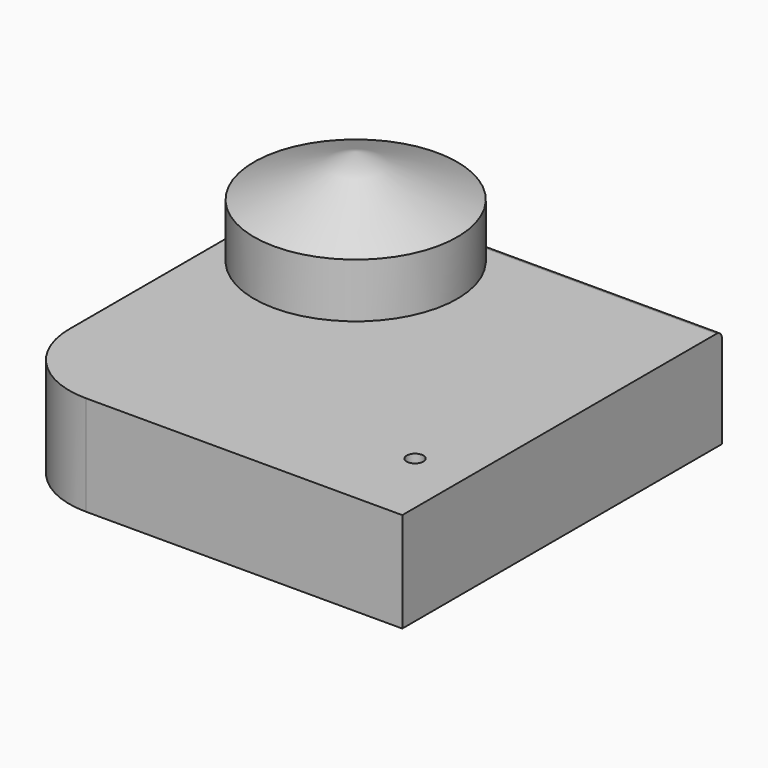
from build123d import *

# Parameters (mm, degrees)
F1_DEPTH = 25
F2_DEPTH = 5
F5_R     = 2
F7_D     = 5


with BuildPart() as f1:
    # F0 (on Top) → F1 (new body)
    with BuildSketch(Plane.XY):
        with BuildLine():
            Line((70, 50), (-35.928932, 50))
            ThreePointArc((-35.928932, 50), (-37.842349, 49.619398), (-39.464466, 48.535534))
            Line((-39.464466, 48.535534), (-50, 38))
            Line((-50, 38), (-50, -45))
            ThreePointArc((-50, -45), (-42.67767, -62.67767), (-25, -70))
            Line((-25, -70), (70, -70))
            Line((70, -70), (70, 50))
        make_face()
    extrude(amount=F1_DEPTH)

    # F0 (on Top) → F2 (join)
    with BuildSketch(Plane.XY):
        with BuildLine():
            Line((70, 50), (-35.928932, 50))
            ThreePointArc((-35.928932, 50), (-37.842349, 49.619398), (-39.464466, 48.535534))
            Line((-39.464466, 48.535534), (-50, 38))
            Line((-50, 38), (-50, -45))
            ThreePointArc((-50, -45), (-42.67767, -62.67767), (-25, -70))
            Line((-25, -70), (70, -70))
            Line((70, -70), (70, 50))
        make_face()
    extrude(amount=-F2_DEPTH)

    # F5
    f5_edges = [f1.edges().sort_by_distance(p)[0] for p in [
        (17.035534, 50, 25),
    ]]
    fillet(f5_edges, radius=F5_R)

    # F7 (through all)
    with Locations(Plane.XY.offset(25)):
        with Locations((54.386906, -45.697726)):
            Hole(F7_D / 2)


with BuildPart() as f4:
    # F3 (on Right) → F4 (revolve)
    with BuildSketch(Plane.YZ):
        Polygon((-30.525748, 40.890129), (0, 40.890129), (0, 69.826104), (-30.525748, 57.220329), align=None)
    revolve(axis=Axis((0, 0, 55.358116), (0, 0, -1)))


solid = Compound([f1.part, f4.part])
